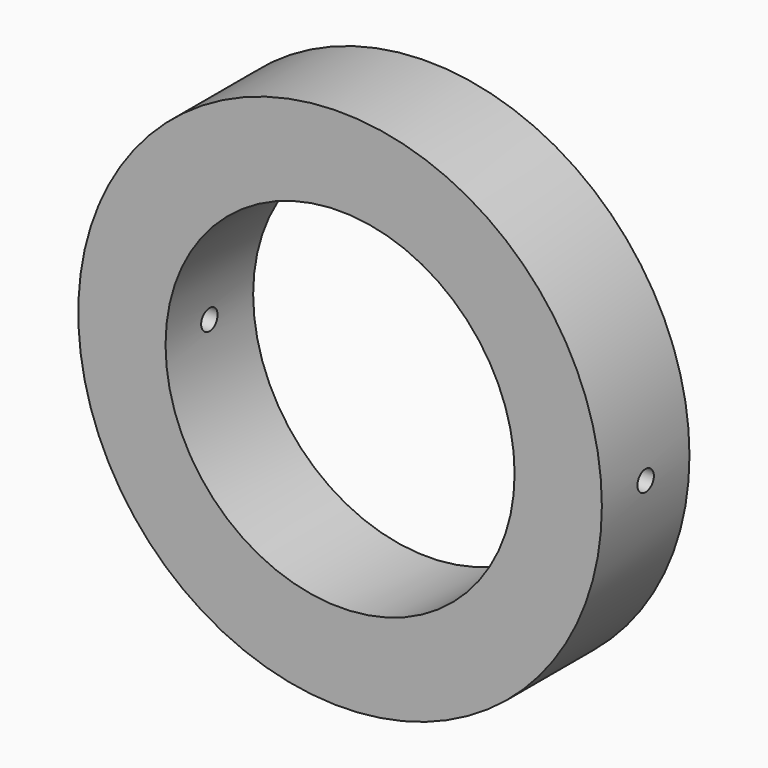
from build123d import *

# Parameters (mm, degrees)
F0_R     = 19.125
F0_R_2   = 12.75
F1_DEPTH = 8
F2_R     = 0.75
F3_DEPTH = 50


with BuildPart() as f1:
    # F0 (on Front) → F1 (new body)
    with BuildSketch(Plane.XZ):
        Circle(F0_R)
        Circle(F0_R_2, mode=Mode.SUBTRACT)
    extrude(amount=F1_DEPTH)

    # F2 (on Right) → F3 (cut, symmetric)
    with BuildSketch(Plane.YZ):
        with Locations((-4, 0)):
            Circle(F2_R)
    extrude(amount=F3_DEPTH, both=True, mode=Mode.SUBTRACT)


solid = f1.part
